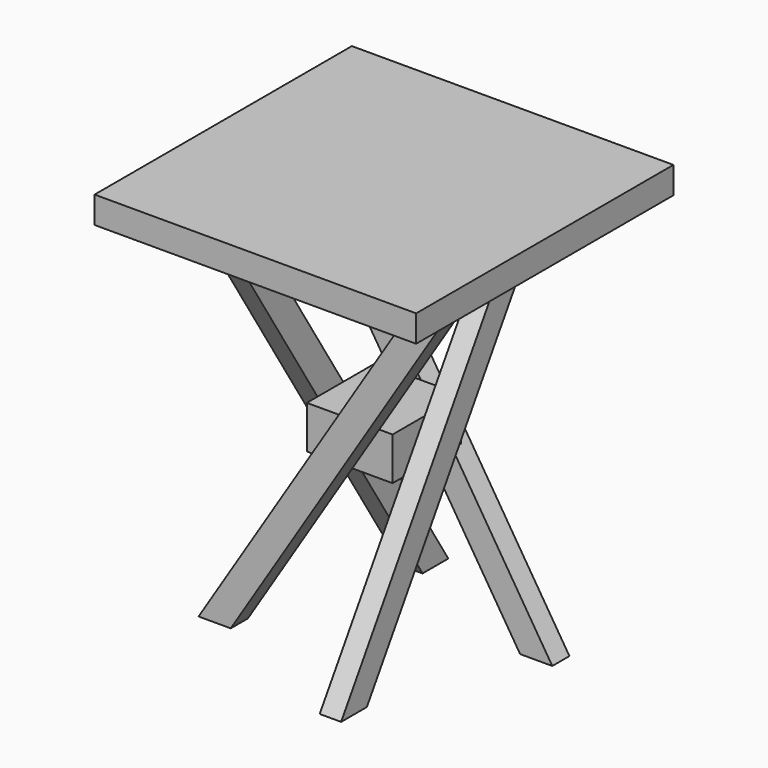
from build123d import *

# Parameters (mm, degrees)
F8_DEPTH  = 20
F9_DEPTH  = 20
F10_COUNT = 2
F10_ANGLE = 90
F3_W      = 80
F3_H      = 80
F11_DEPTH = 20
F0_W      = 300
F0_H      = 300
F0_W_2    = 80
F0_H_2    = 80
F12_DEPTH = 25


with BuildPart() as f8:
    # F7 (on face) → F8 (new body)
    with BuildSketch(Plane(origin=(0, -40, 0), x_dir=(-1, 0, 0), z_dir=(0, 1, 0))):
        Polygon((125, -350), (-95, 0), (-125, 0), (95, -350), align=None)
    extrude(amount=-F8_DEPTH)


with BuildPart() as f9:
    # F6 (on face) → F9 (new body)
    with BuildSketch(Plane(origin=(0, 40, 0), x_dir=(-1, 0, 0), z_dir=(0, 1, 0))):
        Polygon((-125, -350), (-95, -350), (125, 0), (95, 0), align=None)
    extrude(amount=F9_DEPTH)


with BuildPart() as f10_1:
    # F10: instance of F8
    add(f8.part.rotate(Axis((0, 0, -175), (0, 0, -1)), 1 * F10_ANGLE / (F10_COUNT - 1)))


with BuildPart() as f10_2:
    # F10: instance of F9
    add(f9.part.rotate(Axis((0, 0, -175), (0, 0, -1)), 1 * F10_ANGLE / (F10_COUNT - 1)))


with BuildPart() as f11:
    # F3 (on face) → F11 (new body, symmetric)
    with BuildSketch(Plane(origin=(0, 0, -175), x_dir=(1, 0, 0), z_dir=(0, 0, -1))):
        Rectangle(F3_W, F3_H)
    extrude(amount=F11_DEPTH, both=True)


with BuildPart() as f12:
    # F0 (on Top) → F12 (new body)
    with BuildSketch(Plane.XY):
        Rectangle(F0_W, F0_H)
        Rectangle(F0_W_2, F0_H_2, mode=Mode.SUBTRACT)
        Rectangle(F0_W_2, F0_H_2)
    extrude(amount=F12_DEPTH)


solid = Compound([f8.part, f9.part, f10_1.part, f10_2.part, f11.part, f12.part])
